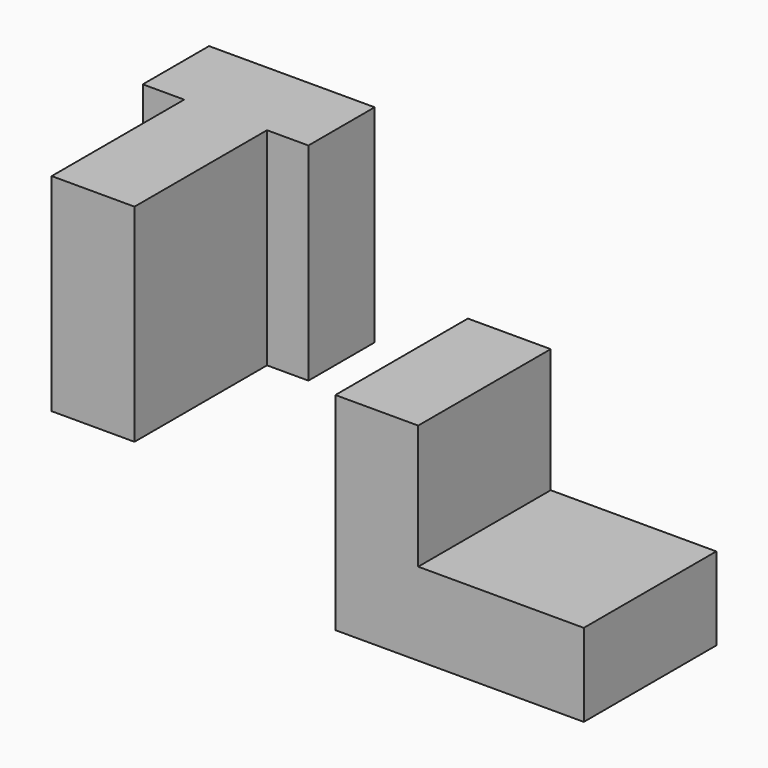
from build123d import *

# Parameters (mm, degrees)
F1_DEPTH = 25.4
F3_DEPTH = 31.75


with BuildPart() as f1:
    # F0 (on Front) → F1 (new body)
    with BuildSketch(Plane.XZ):
        Polygon((34.116079, 31.75), (21.416079, 31.75), (21.416079, 0), (59.516079, 0), (59.516079, 12.7), (34.116079, 12.7), align=None)
    extrude(amount=F1_DEPTH)


with BuildPart() as f3:
    # F2 (on Top) → F3 (new body)
    with BuildSketch(Plane.XY):
        Polygon((-21.532532, 35.813233), (-46.932532, 35.813233), (-46.932532, 23.113233), (-40.582532, 23.113233), (-40.582532, -2.286767), (-27.882532, -2.286767), (-27.882532, 23.113233), (-21.532532, 23.113233), align=None)
    extrude(amount=F3_DEPTH)


solid = Compound([f1.part, f3.part])
